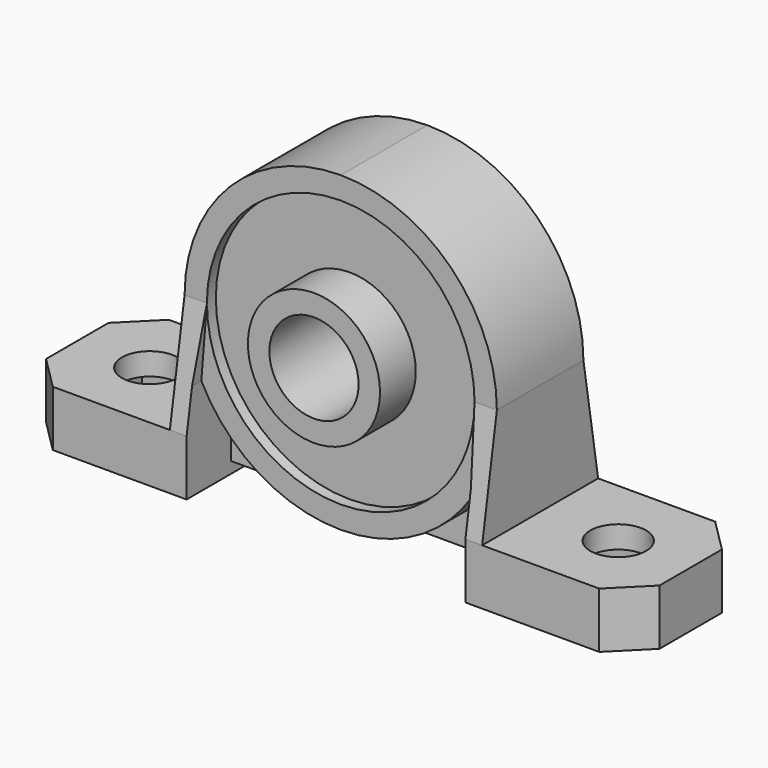
from build123d import *

# Parameters (mm, degrees)
F0_W      = 15
F0_H      = 13
F0_R      = 2.5
F1_DEPTH  = 5
F2_W      = 28
F2_H      = 13
F3_DEPTH  = 29
F5_DEPTH  = 13.001
F6_W      = 25
F6_H      = 5
F7_DEPTH  = 1
F9_DEPTH  = 14
F10_R     = 12
F11_DEPTH = 2.65
F12_R     = 12
F13_DEPTH = 2.65
F14_R     = 5.925
F15_DEPTH = 4
F16_R     = 4
F17_DEPTH = 14.351
F19_SIZE  = 3
F21_DEPTH = 5
F23_DEPTH = 5
F24_W     = 25
F24_H     = 3
F25_DEPTH = 1
F27_DEPTH = 1.65
F29_DEPTH = 1.65
F30_W     = 10
F30_H     = 8.3
F31_DEPTH = 3


with BuildPart() as f1:
    # F0 (on Top) → F1 (new body)
    with BuildSketch(Plane.XY):
        with Locations((-20, 0)):
            Rectangle(F0_W, F0_H)
        with Locations((-21, 0)):
            Circle(F0_R, mode=Mode.SUBTRACT)
    extrude(amount=F1_DEPTH)


with BuildPart() as f1b:
    # F0 (on Top) → F1, piece 2 (new body)
    with BuildSketch(Plane.XY):
        with Locations((20, 0)):
            Rectangle(F0_W, F0_H)
        with Locations((21, 0)):
            Circle(F0_R, mode=Mode.SUBTRACT)
    extrude(amount=F1_DEPTH)


with BuildPart() as f3:
    # F2 (on Top) → F3 (new body)
    with BuildSketch(Plane.XY):
        Rectangle(F2_W, F2_H)
    extrude(amount=F3_DEPTH)

    # F4 (on face) → F5 (cut, through all)
    with BuildSketch(Plane.XZ.offset(6.5)):
        with BuildLine():
            ThreePointArc((-14, 15), (-9.8994949366, 24.8994949366), (0, 29))
            Line((0, 29), (-14, 29))
            Line((-14, 29), (-14, 15))
        make_face()
        with BuildLine():
            ThreePointArc((0, 29), (9.8994949366, 24.8994949366), (14, 15))
            Line((14, 15), (14, 29))
            Line((14, 29), (0, 29))
        make_face()
    extrude(amount=-F5_DEPTH, mode=Mode.SUBTRACT)

    # F6 (on face) → F7 (cut)
    with BuildSketch(Plane(origin=(0, 0, 0), x_dir=(1, 0, 0), z_dir=(0, 0, -1))):
        with Locations((0, 4)):
            Rectangle(F6_W, F6_H)
        with Locations((0, -4)):
            Rectangle(F6_W, F6_H)
    extrude(amount=-F7_DEPTH, mode=Mode.SUBTRACT)

    # F8 (on Right) → F9 (cut, symmetric)
    with BuildSketch(Plane.YZ):
        Polygon((-6.5, 29), (-6.5, 5), (-4.85, 15), (-4.85, 29), align=None)
        Polygon((4.85, 29), (4.85, 15), (6.5, 5), (6.5, 29), align=None)
    extrude(amount=F9_DEPTH, both=True, mode=Mode.SUBTRACT)

    # F10 (on face) → F11 (cut)
    with BuildSketch(Plane.XZ.offset(6.5)):
        with Locations((0, 15)):
            Circle(F10_R)
    extrude(amount=-F11_DEPTH, mode=Mode.SUBTRACT)

    # F12 (on face) → F13 (cut)
    with BuildSketch(Plane(origin=(0, 6.5, 0), x_dir=(-1, 0, 0), z_dir=(0, 1, 0))):
        with Locations((0, 15)):
            Circle(F12_R)
    extrude(amount=-F13_DEPTH, mode=Mode.SUBTRACT)

    # F14 (on face) → F15 (join)
    with BuildSketch(Plane.XZ.offset(3.85)):
        with Locations((0, 15)):
            Circle(F14_R)
    extrude(amount=F15_DEPTH)

    # F16 (on face) → F17 (cut, through all)
    with BuildSketch(Plane.XZ.offset(7.85)):
        with Locations((0, 15)):
            Circle(F16_R)
    extrude(amount=-F17_DEPTH, mode=Mode.SUBTRACT)


with BuildPart() as f1_1:
    add(f1.part)

    # F18: union F3, F1b
    add(f3.part)
    add(f1b.part)

    # F19
    f19_edges = [f1_1.edges().sort_by_distance(p)[0] for p in [
        (27.5, -6.5, 2.5),
        (27.5, 6.5, 2.5),
        (-27.5, -6.5, 2.5),
        (-27.5, 6.5, 2.5),
    ]]
    chamfer(f19_edges, length=F19_SIZE)

    # F20 (on face) → F21 (cut)
    with BuildSketch(Plane.XZ.offset(6.5)):
        with BuildLine():
            ThreePointArc((12.5, 8.6952398935), (7.3393922678, 3.0780319938), (-6.31e-08, 1))
            Line((-6.31e-08, 1), (12.5, 1))
            Line((12.5, 1), (12.5, 8.6952398935))
        make_face()
        with BuildLine():
            ThreePointArc((-6.31e-08, 1), (-7.3393923215, 3.0780320269), (-12.5, 8.6952398935))
            Line((-12.5, 8.6952398935), (-12.5, 1))
            Line((-12.5, 1), (-6.31e-08, 1))
        make_face()
    extrude(amount=-F21_DEPTH, mode=Mode.SUBTRACT)

    # F22 (on face) → F23 (cut)
    with BuildSketch(Plane(origin=(0, 6.5, 0), x_dir=(-1, 0, 0), z_dir=(0, 1, 0))):
        with BuildLine():
            ThreePointArc((12.5, 8.6952398935), (7.3393922574, 3.0780319875), (-8.75e-08, 1))
            Line((-8.75e-08, 1), (12.5, 1))
            Line((12.5, 1), (12.5, 8.6952398935))
        make_face()
        with BuildLine():
            ThreePointArc((-8.75e-08, 1), (-7.3393923319, 3.0780320333), (-12.5, 8.6952398935))
            Line((-12.5, 8.6952398935), (-12.5, 1))
            Line((-12.5, 1), (-8.75e-08, 1))
        make_face()
    extrude(amount=-F23_DEPTH, mode=Mode.SUBTRACT)

    # F24 (on face) → F25 (cut)
    with BuildSketch(Plane(origin=(0, 0, 0), x_dir=(1, 0, 0), z_dir=(0, 0, -1))):
        Rectangle(F24_W, F24_H)
    extrude(amount=-F25_DEPTH, mode=Mode.SUBTRACT)

    # F26 (on face) → F27 (cut)
    with BuildSketch(Plane.XZ.offset(6.5)):
        with BuildLine():
            ThreePointArc((-12.5, 8.6952398935), (-11.3010372549, 6.7364319472), (-9.7979589711, 5))
            ThreePointArc((-9.7979589711, 5), (0, 1), (9.7979589711, 5))
            ThreePointArc((9.7979589711, 5), (11.3010372549, 6.7364319472), (12.5, 8.6952398935))
            Line((12.5, 8.6952398935), (12, 15))
            ThreePointArc((12, 15), (10.5735281474, 9.3254513381), (6.6332495807, 5))
            ThreePointArc((6.6332495807, 5), (0, 3), (-6.6332495807, 5))
            ThreePointArc((-6.6332495807, 5), (-10.5735281474, 9.3254513381), (-12, 15))
            Line((-12, 15), (-12.5, 8.6952398935))
        make_face()
    extrude(amount=-F27_DEPTH, mode=Mode.SUBTRACT)

    # F28 (on face) → F29 (cut)
    with BuildSketch(Plane(origin=(0, 6.5, 0), x_dir=(-1, 0, 0), z_dir=(0, 1, 0))):
        with BuildLine():
            Line((-12, 15), (-12.5, 8.6952398935))
            ThreePointArc((-12.5, 8.6952398935), (-11.3010372549, 6.7364319472), (-9.7979589711, 5))
            ThreePointArc((-9.7979589711, 5), (0, 1), (9.7979589711, 5))
            ThreePointArc((9.7979589711, 5), (11.3010372549, 6.7364319472), (12.5, 8.6952398935))
            Line((12.5, 8.6952398935), (12, 15))
            ThreePointArc((12, 15), (10.5735281474, 9.3254513381), (6.6332495807, 5))
            ThreePointArc((6.6332495807, 5), (0, 3), (-6.6332495807, 5))
            ThreePointArc((-6.6332495807, 5), (-10.5735281474, 9.3254513381), (-12, 15))
        make_face()
    extrude(amount=-F29_DEPTH, mode=Mode.SUBTRACT)

    # F30 (on face) → F31 (cut)
    with BuildSketch(Plane(origin=(0, 0, 0), x_dir=(1, 0, 0), z_dir=(0, 0, -1))):
        with Locations((-20, 0)):
            Rectangle(F30_W, F30_H)
        with Locations((20, 0)):
            Rectangle(F30_W, F30_H)
    extrude(amount=-F31_DEPTH, mode=Mode.SUBTRACT)


solid = f1_1.part
